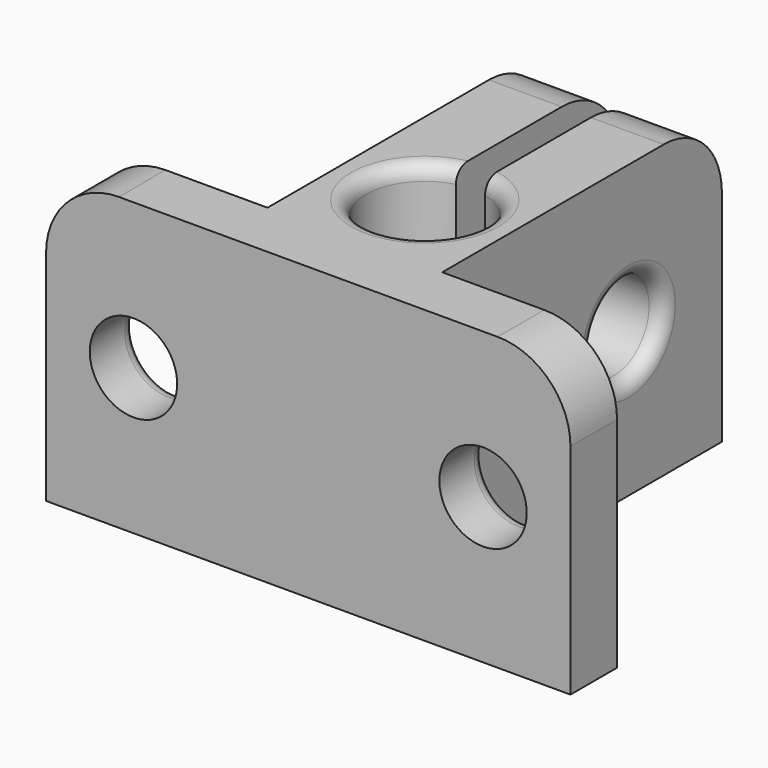
from build123d import *

# Parameters (mm, degrees)
F0_R     = 4.05
F1_DEPTH = 20
F2_W     = 2
F2_H     = 25.5416983529
F3_DEPTH = 25
F4_R     = 3
F5_DEPTH = 25
F6_R     = 3
F7_DEPTH = 25
F8_R     = 5
F9_R     = 1


with BuildPart() as f1:
    # F0 (on Top) → F1 (new body)
    with BuildSketch(Plane.XY):
        Polygon((6, 28), (0, 28), (-6, 28), (-6, 4), (-18, 4), (-18, 0), (0, 0), (18, 0), (18, 4), (6, 4), align=None)
        with Locations((0, 10)):
            Circle(F0_R, mode=Mode.SUBTRACT)
    extrude(amount=F1_DEPTH)

    # F2 (on face) → F3 (cut)
    with BuildSketch(Plane.XY.offset(20)):
        with Locations((0, 21.3338027536)):
            Rectangle(F2_W, F2_H)
    extrude(amount=-F3_DEPTH, mode=Mode.SUBTRACT)

    # F4 (on face) → F5 (cut)
    with BuildSketch(Plane(origin=(-6, 0, 0), x_dir=(0, -1, 0), z_dir=(-1, 0, 0))):
        with Locations((-20, 9.9280960858)):
            Circle(F4_R)
    extrude(amount=-F5_DEPTH, mode=Mode.SUBTRACT)

    # F6 (on face) → F7 (cut)
    with BuildSketch(Plane(origin=(0, 4, 0), x_dir=(-1, 0, 0), z_dir=(0, 1, 0))):
        with Locations((12, 10)):
            Circle(F6_R)
        with Locations((-12, 10)):
            Circle(F6_R)
    extrude(amount=-F7_DEPTH, mode=Mode.SUBTRACT)

    # F8
    f8_edges = [f1.edges().sort_by_distance(p)[0] for p in [
        (3.5, 28, 20),
        (-3.5, 28, 20),
        (-18, 2, 20),
        (18, 2, 20),
    ]]
    fillet(f8_edges, radius=F8_R)

    # F9
    f9_edges = [f1.edges().sort_by_distance(p)[0] for p in [
        (0, 5.95, 20),
        (-9, 4, 10),
        (15, 4, 10),
        (-6, 23, 9.928096),
        (6, 23, 9.928096),
    ]]
    fillet(f9_edges, radius=F9_R)


solid = f1.part
